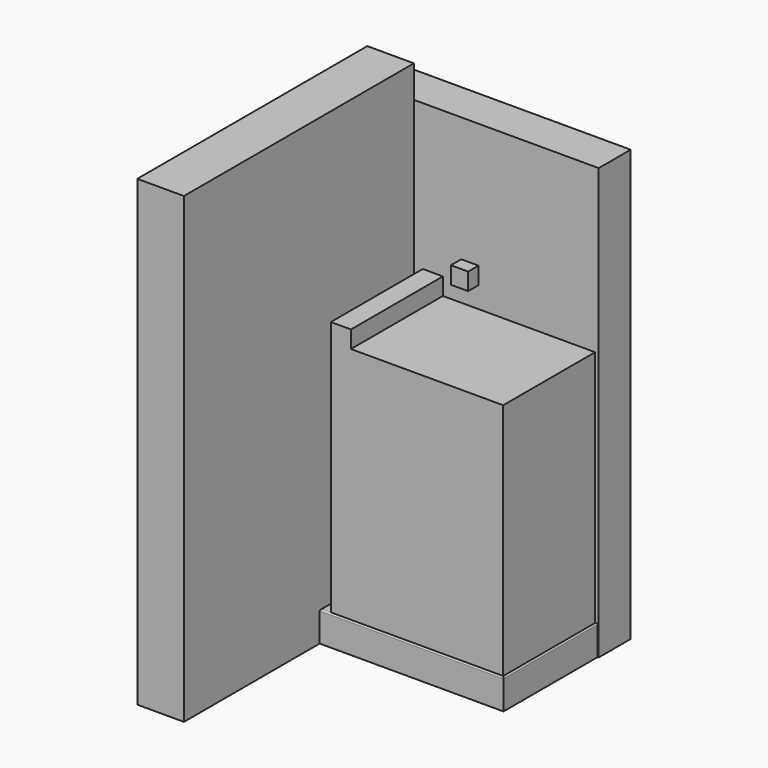
from build123d import *

# Parameters (mm, degrees)
F0_W      = 162.56
F0_H      = 104.14
F1_DEPTH  = 26.67
F2_R      = 1.27
F3_W      = 41.2198416889
F3_H      = 254.2093396187
F4_DEPTH  = 409.448
F5_W      = 204.1760310531
F5_H      = 35.3224389255
F6_DEPTH  = 381
F7_W      = 15.24
F7_H      = 15.24
F8_DEPTH  = 11.43
F9_W      = 152.4
F9_H      = 101.6
F10_DEPTH = 226.06
F11_W     = 134.62
F11_H     = 101.6
F12_DEPTH = 15.24


with BuildPart() as f1:
    # F0 (on Top) → F1 (new body)
    with BuildSketch(Plane.XY):
        with Locations((81.28, -52.07)):
            Rectangle(F0_W, F0_H)
    extrude(amount=F1_DEPTH)

    # F2
    f2_edges = [f1.edges().sort_by_distance(p)[0] for p in [
        (81.28, 0, 26.67),
        (0, -52.07, 26.67),
        (81.28, -104.14, 26.67),
        (162.56, -52.07, 26.67),
    ]]
    fillet(f2_edges, radius=F2_R)

    # F3 (on Top) → F4 (join)
    with BuildSketch(Plane.XY):
        with Locations((-20.6099208444, -127.1046698093)):
            Rectangle(F3_W, F3_H)
    extrude(amount=F4_DEPTH)

    # F5 (on Top) → F6 (join)
    with BuildSketch(Plane.XY):
        with Locations((61.3948740065, 17.6612194628)):
            Rectangle(F5_W, F5_H)
    extrude(amount=F6_DEPTH)

    # F7 (on face) → F8 (join)
    with BuildSketch(Plane.XZ):
        with Locations((49.53, 262.89)):
            Rectangle(F7_W, F7_H)
    extrude(amount=F8_DEPTH)


with BuildPart() as f10:
    # F9 (on face) → F10 (new body)
    with BuildSketch(Plane.XY.offset(26.67)):
        with Locations((85.09, -52.07)):
            Rectangle(F9_W, F9_H)
    extrude(amount=F10_DEPTH)

    # F11 (on face) → F12 (cut)
    with BuildSketch(Plane.XY.offset(252.73)):
        with Locations((93.98, -52.07)):
            Rectangle(F11_W, F11_H)
    extrude(amount=-F12_DEPTH, mode=Mode.SUBTRACT)


solid = Compound([f1.part, f10.part])
